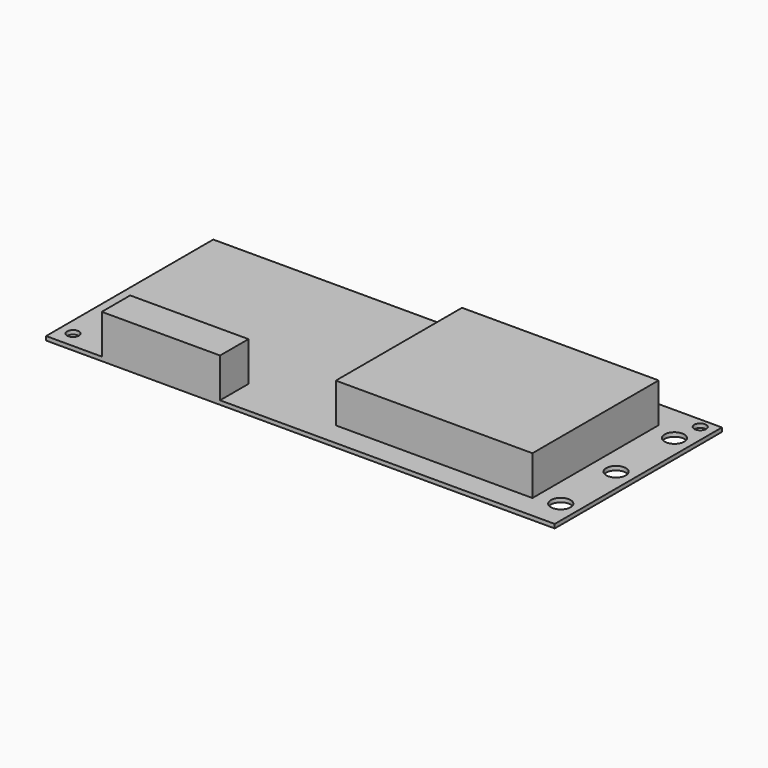
from build123d import *

# Parameters (mm, degrees)
F0_R     = 1.5
F0_R_2   = 2.5
F0_W     = 49.869843
F0_H     = 40.004894
F0_W_2   = 30
F0_H_2   = 9
F1_DEPTH = 1.016
F2_DEPTH = 10


with BuildPart() as f1:
    # F0 (on Top) → F1 (new body)
    with BuildSketch(Plane.XY):
        Polygon((0, 53), (0, 0), (14.124727, 0), (14.124727, 9), (44.124727, 9), (44.124727, 0), (129, 0), (129, 53), align=None)
        with Locations((3.492343, 4.177653)):
            Circle(F0_R, mode=Mode.SUBTRACT)
        with Locations((124.5, 7.541248)):
            Circle(F0_R_2, mode=Mode.SUBTRACT)
        with Locations((93.68017, 25.918216)):
            Rectangle(F0_W, F0_H, mode=Mode.SUBTRACT)
        with Locations((124.5, 25.076802)):
            Circle(F0_R_2, mode=Mode.SUBTRACT)
        with Locations((124.5, 43.574877)):
            Circle(F0_R_2, mode=Mode.SUBTRACT)
        with Locations((125.5, 50.5)):
            Circle(F0_R, mode=Mode.SUBTRACT)
        with Locations((93.68017, 25.918216)):
            Rectangle(F0_W, F0_H)
        with Locations((29.124727, 4.5)):
            Rectangle(F0_W_2, F0_H_2)
    extrude(amount=-F1_DEPTH)

    # F0 (on Top) → F2 (join)
    with BuildSketch(Plane.XY):
        with Locations((29.124727, 4.5)):
            Rectangle(F0_W_2, F0_H_2)
        with Locations((93.68017, 25.918216)):
            Rectangle(F0_W, F0_H)
    extrude(amount=F2_DEPTH)


solid = f1.part
